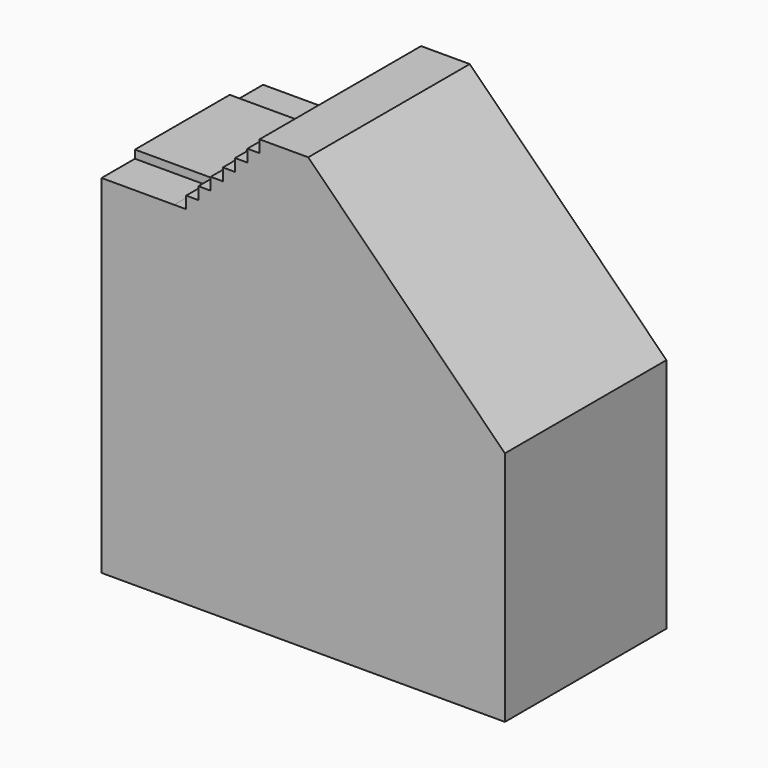
from build123d import *

# Parameters (mm, degrees)
F1_DEPTH = 50.8
F3_DEPTH = 10.4902
F5_DEPTH = 10.4902
F6_W     = 24.436295
F6_H     = 29.8196
F7_DEPTH = 2.032


with BuildPart() as f1:
    # F0 (on Front) → F1 (new body)
    with BuildSketch(Plane.XZ):
        Polygon((0, 87.4776), (0, 0), (101.473, 0), (101.473, 59.4868), (51.991789, 108.968011), (39.748989, 108.968011), (18.258578, 87.4776), align=None)
    extrude(amount=F1_DEPTH)

    # F2 (on face) → F3 (cut)
    with BuildSketch(Plane.XZ.offset(50.8)):
        Polygon((21.27824, 87.479748), (21.27824, 90.497263), (18.258578, 87.4776), align=None)
        Polygon((24.362021, 90.497263), (24.362021, 93.581043), (21.27824, 90.497263), align=None)
        Polygon((27.44224, 93.581043), (27.44224, 96.661262), (24.362021, 93.581043), align=None)
        Polygon((30.520708, 96.661262), (30.520708, 99.73973), (27.44224, 96.661262), align=None)
        Polygon((33.59858, 99.73973), (33.59858, 102.817602), (30.520708, 99.73973), align=None)
        Polygon((36.676452, 102.817602), (36.676452, 105.895475), (33.59858, 102.817602), align=None)
        Polygon((39.748989, 105.895475), (39.748989, 108.968011), (36.676452, 105.895475), align=None)
    extrude(amount=-F3_DEPTH, mode=Mode.SUBTRACT)

    # F4 (on face) → F5 (cut)
    with BuildSketch(Plane(origin=(0, 0, 0), x_dir=(-1, 0, 0), z_dir=(0, 1, 0))):
        Polygon((-36.672943, 105.891965), (-39.748989, 108.968011), (-39.748989, 105.891965), align=None)
        Polygon((-18.258578, 87.4776), (-21.280885, 90.499908), (-21.280885, 87.4776), align=None)
        Polygon((-21.280885, 90.499908), (-24.358757, 93.57778), (-24.358757, 90.499908), align=None)
        Polygon((-24.358757, 93.57778), (-27.439327, 96.658349), (-27.439327, 93.57778), align=None)
        Polygon((-27.439327, 96.658349), (-30.517199, 99.736221), (-30.517199, 96.658349), align=None)
        Polygon((-30.517199, 99.736221), (-33.595071, 102.814093), (-33.595071, 99.736221), align=None)
        Polygon((-33.595071, 102.814093), (-36.672943, 105.891965), (-36.672943, 102.814093), align=None)
    extrude(amount=-F5_DEPTH, mode=Mode.SUBTRACT)

    # F6 (on face) → F7 (join)
    with BuildSketch(Plane.XY.offset(87.4776)):
        with Locations((12.218147, -25.4)):
            Rectangle(F6_W, F6_H)
    extrude(amount=F7_DEPTH)


solid = f1.part
